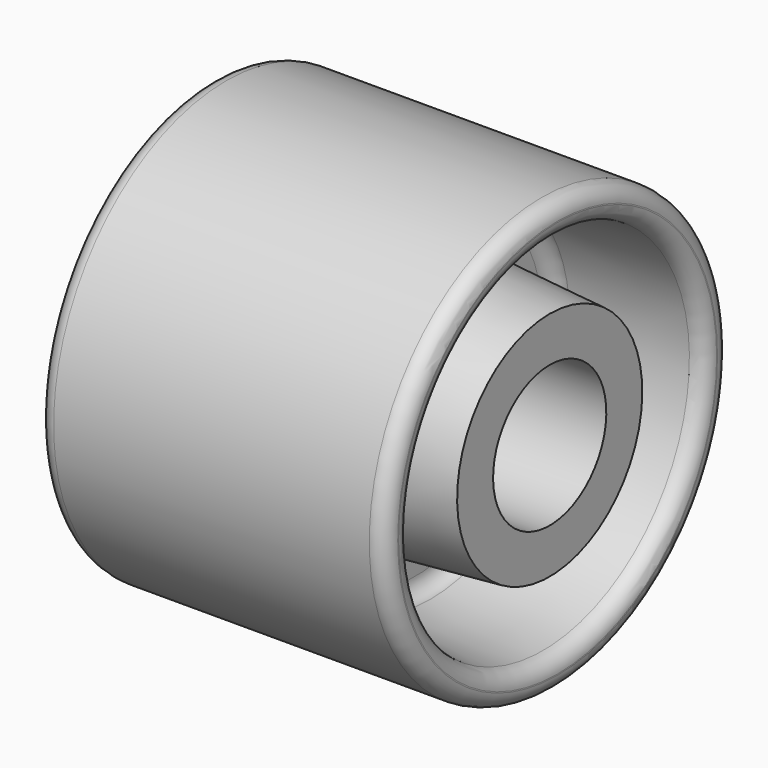
from build123d import *


with BuildPart() as f1:
    # F0 (on Front) → F1 (revolve)
    with BuildSketch(Plane.XZ):
        with BuildLine():
            Line((1.5, 13.45), (64.5, 13.45))
            Line((64.5, 13.45), (64.5, 22))
            Line((64.5, 22), (41.765426, 23.783104))
            ThreePointArc((41.765426, 23.783104), (39.797306, 24.737221), (39, 26.773919))
            Line((39, 26.773919), (39, 30.214003))
            ThreePointArc((39, 30.214003), (39.801723, 32.255468), (41.778385, 33.205806))
            Line((41.778385, 33.205806), (63.221615, 34.794194))
            ThreePointArc((63.221615, 34.794194), (65.198277, 35.744532), (66, 37.785997))
            Line((66, 37.785997), (66, 38))
            ThreePointArc((66, 38), (65.12132, 40.12132), (63, 41))
            Line((63, 41), (3, 41))
            ThreePointArc((3, 41), (0.87868, 40.12132), (0, 38))
            Line((0, 38), (0, 37.785997))
            ThreePointArc((0, 37.785997), (0.801723, 35.744532), (2.778385, 34.794194))
            Line((2.778385, 34.794194), (24.221615, 33.205806))
            ThreePointArc((24.221615, 33.205806), (26.198277, 32.255468), (27, 30.214003))
            Line((27, 30.214003), (27, 26.773919))
            ThreePointArc((27, 26.773919), (26.202694, 24.737221), (24.234574, 23.783104))
            Line((24.234574, 23.783104), (1.5, 22))
            Line((1.5, 22), (1.5, 13.45))
        make_face()
    revolve(axis=Axis((25.993224, 0, 0), (1, 0, 0)))


solid = f1.part
